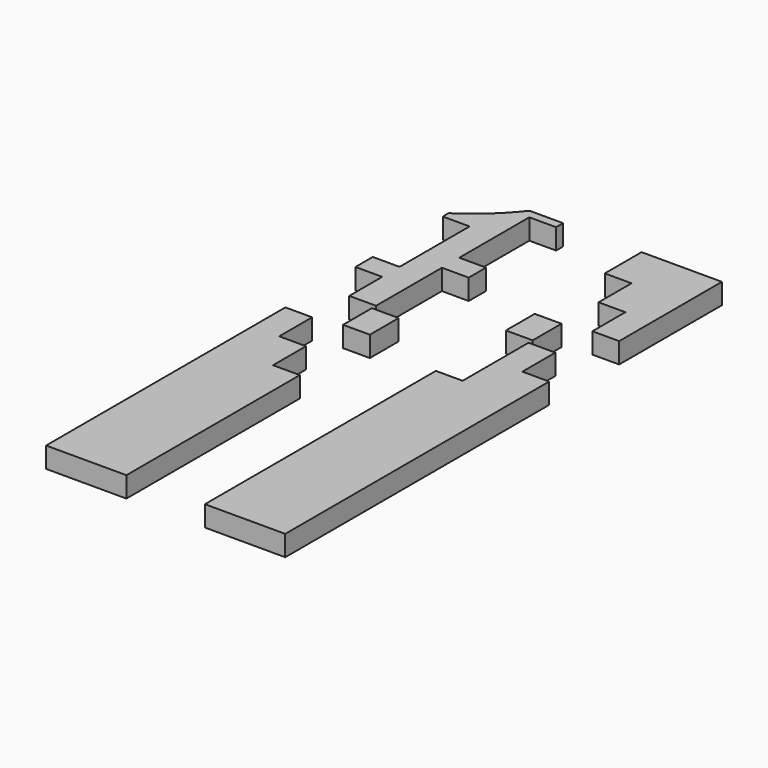
from build123d import *

# Parameters (mm, degrees)
F0_W     = 2.6
F0_H     = 0.85
F0_H_2   = 2.105
F1_DEPTH = 2
F0_H_3   = 3.5
F0_H_4   = 21.045
F0_H_5   = 4.47
F0_H_6   = 32.03
F0_H_7   = 28.03


with BuildPart() as f1:
    # F0 (on Top) → F1 (new body)
    with BuildSketch(Plane.XY):
        with BuildLine():
            Line((-1.3, 21.65), (-1.3, 24.3894784928))
            ThreePointArc((-1.3, 24.3894784928), (-2.5553083064, 23.3178016678), (-3.9, 22.3606734579))
            Line((-3.9, 22.3606734579), (-3.9, 21.65))
            Line((-3.9, 21.65), (-1.3, 21.65))
        make_face()
        with Locations((2.6, 26.075)):
            Rectangle(F0_W, F0_H)
        with BuildLine():
            Line((1.3, 25.65), (1.3, 26.5))
            Line((1.3, 26.5), (0.6410047179, 26.5))
            ThreePointArc((0.6410047179, 26.5), (-0.2890942171, 25.4075810197), (-1.3, 24.3894784928))
            Line((-1.3, 24.3894784928), (-1.3, 21.65))
            Line((-1.3, 21.65), (-1.3, 13.15))
            Line((-1.3, 13.15), (-1.3, 11.045))
            Line((-1.3, 11.045), (-1.3, 7.045))
            Line((-1.3, 7.045), (1.3, 7.045))
            Line((1.3, 7.045), (1.3, 15.045))
            Line((1.3, 15.045), (1.3, 17.15))
            Line((1.3, 17.15), (1.3, 25.65))
        make_face()
        with Locations((2.6, 16.0975)):
            Rectangle(F0_W, F0_H_2)
        with Locations((-2.6, 12.0975)):
            Rectangle(F0_W, F0_H_2)
    extrude(amount=F1_DEPTH)


with BuildPart() as f1b:
    # F0 (on Top) → F1, piece 2 (new body)
    with BuildSketch(Plane.XY):
        with Locations((2.6, 4.795)):
            Rectangle(F0_W, F0_H_3)
    extrude(amount=F1_DEPTH)


with BuildPart() as f1c:
    # F0 (on Top) → F1, piece 3 (new body)
    with BuildSketch(Plane.XY):
        Polygon((-1.3, -1.455), (-1.3, 2.545), (-3.9, 2.545), (-3.9, -26.5), (-1.3, -26.5), align=None)
        Polygon((1.3, -26.5), (1.3, -5.455), (1.3, -1.455), (-1.3, -1.455), (-1.3, -26.5), align=None)
        with Locations((2.6, -15.9775)):
            Rectangle(F0_W, F0_H_4)
    extrude(amount=F1_DEPTH)


with BuildPart() as f1d:
    # F0 (on Top) → F1, piece 4 (new body)
    with BuildSketch(Plane.XY):
        with Locations((12.8221682936, 24.265)):
            Rectangle(F0_W, F0_H_5)
        Polygon((14.1221682936, 26.5), (14.1221682936, 22.03), (14.1221682936, 18.03), (16.7221682936, 18.03), (16.7221682936, 26.5), align=None)
        Polygon((16.7221682936, 14.03), (19.3221682936, 14.03), (19.3221682936, 26.5), (16.7221682936, 26.5), (16.7221682936, 18.03), align=None)
    extrude(amount=F1_DEPTH)


with BuildPart() as f1e:
    # F0 (on Top) → F1, piece 5 (new body)
    with BuildSketch(Plane.XY):
        with Locations((12.8221682936, 11.78)):
            Rectangle(F0_W, F0_H_3)
    extrude(amount=F1_DEPTH)


with BuildPart() as f1f:
    # F0 (on Top) → F1, piece 6 (new body)
    with BuildSketch(Plane.XY):
        Polygon((14.1221682936, 1.53), (14.1221682936, -26.5), (16.7221682936, -26.5), (16.7221682936, 5.53), (16.7221682936, 9.53), (14.1221682936, 9.53), align=None)
        with Locations((18.0221682936, -10.485)):
            Rectangle(F0_W, F0_H_6)
        with Locations((12.8221682936, -12.485)):
            Rectangle(F0_W, F0_H_7)
    extrude(amount=F1_DEPTH)


solid = Compound([f1.part, f1b.part, f1c.part, f1d.part, f1e.part, f1f.part])
